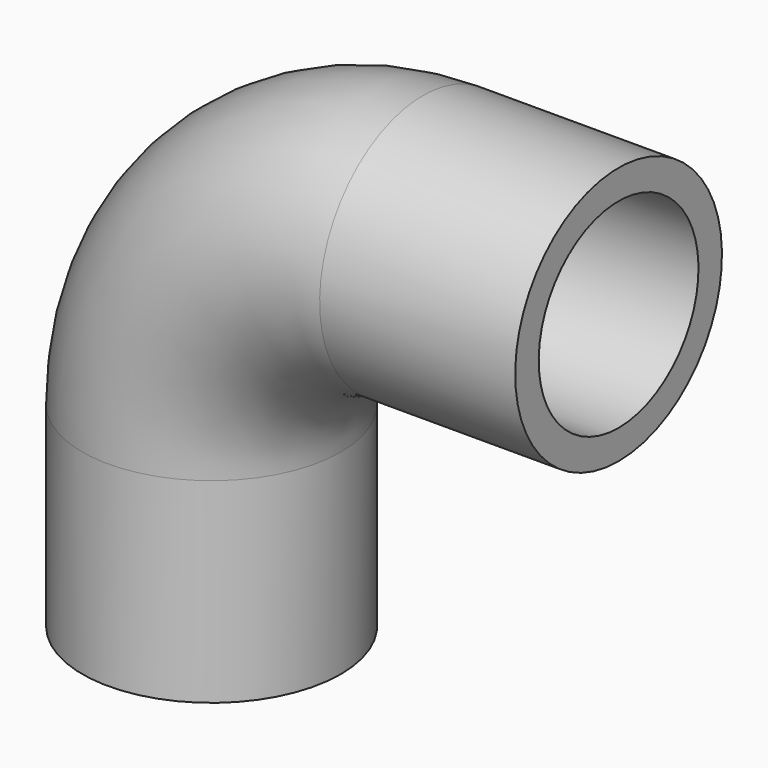
from build123d import *

# Parameters (mm, degrees)
F1_R = 13.97
F3_R = 10.795


with BuildPart() as f2:
    # F2: sweep along a path in F0
    with BuildLine(Plane.XZ) as f2_path:
        Line((0, 0), (0, 21.14))
        ThreePointArc((0, 21.14), (6.6955389821, 37.3044610179), (22.86, 44))
        Line((22.86, 44), (44, 44))
    # F1 (on Top) → F2 (sweep)
    with BuildSketch(Plane.XY):
        Circle(F1_R)
    sweep(path=f2_path.line)

    # F4: sweep along a path in F0
    with BuildLine(Plane.XZ) as f4_path:
        Line((0, 0), (0, 21.14))
        ThreePointArc((0, 21.14), (6.6955389821, 37.3044610179), (22.86, 44))
        Line((22.86, 44), (44, 44))
    # F3 (on face) → F4 (sweep, cut)
    with BuildSketch(Plane(origin=(0, 0, 0), x_dir=(1, 0, 0), z_dir=(0, 0, -1))):
        Circle(F3_R)
    sweep(path=f4_path.line, mode=Mode.SUBTRACT)


solid = f2.part
